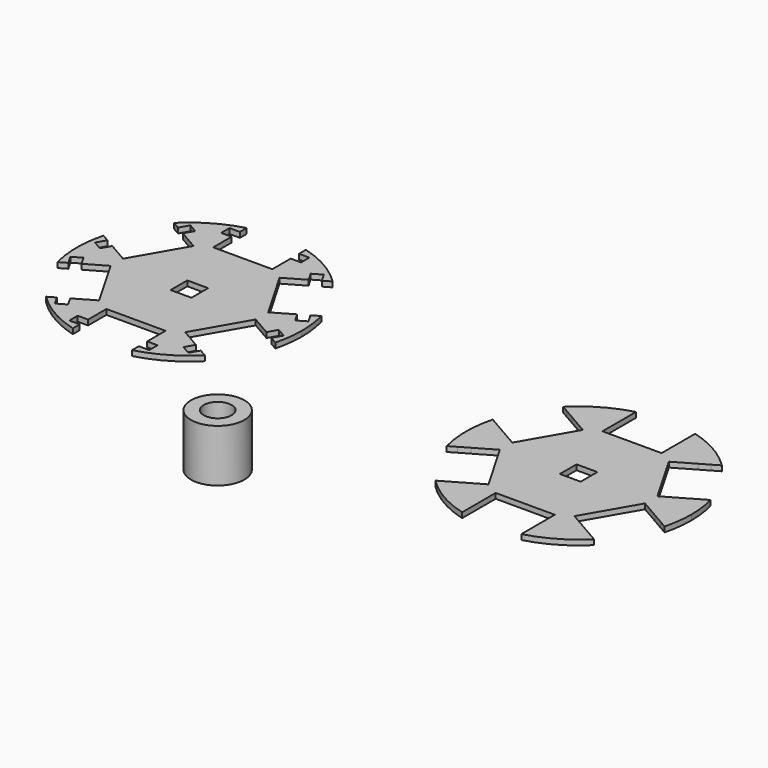
from build123d import *

# Parameters (mm, degrees)
F0_R     = 4.064
F0_R_2   = 2.1209
F1_DEPTH = 8
F0_W     = 1.5875
F0_H     = 1.5875
F0_W_2   = 3.175
F0_H_2   = 3.175
F2_DEPTH = 0.79375
F3_DEPTH = 0.79375


with BuildPart() as f1:
    # F0 (on Top) → F1 (new body)
    with BuildSketch(Plane.XY):
        with Locations((-34.970284, -24.971306)):
            Circle(F0_R)
        with Locations((-34.970284, -24.971306)):
            Circle(F0_R_2, mode=Mode.SUBTRACT)
    extrude(amount=F1_DEPTH)


with BuildPart() as f2:
    # F0 (on Top) → F2 (new body)
    with BuildSketch(Plane.XY):
        Polygon((-16.241977, -2.34807), (-15.448227, -3.722886), (-14.073412, -2.929136), (-14.867162, -1.55432), align=None)
        with Locations((-5.29375, -14.44625)):
            Rectangle(F0_W, F0_H)
        with Locations((5.29375, -14.44625)):
            Rectangle(F0_W, F0_H)
        Polygon((10.154477, -12.89193), (10.948227, -11.517114), (9.573412, -10.723364), (8.779662, -12.09818), align=None)
        Polygon((14.073412, -2.929136), (15.448227, -3.722886), (16.241977, -2.34807), (14.867162, -1.55432), align=None)
        Polygon((16.241977, 2.34807), (15.448227, 3.722886), (14.073412, 2.929136), (14.867162, 1.55432), align=None)
        Polygon((-10.154477, 12.89193), (-10.948227, 11.517114), (-9.573412, 10.723364), (-8.779662, 12.09818), align=None)
        with BuildLine():
            ThreePointArc((16.577448, -4.374842), (17.00252, -2.205751), (17.145, 0))
            ThreePointArc((17.145, 0), (17.00252, 2.205751), (16.577448, 4.374842))
            Line((16.577448, 4.374842), (15.448227, 3.722886))
            Line((15.448227, 3.722886), (16.241977, 2.34807))
            Line((16.241977, 2.34807), (14.867162, 1.55432))
            Line((14.867162, 1.55432), (14.073412, 2.929136))
            Line((14.073412, 2.929136), (11.048818, 1.182886))
            Line((11.048818, 1.182886), (6.548818, 8.977114))
            Line((6.548818, 8.977114), (9.573412, 10.723364))
            Line((9.573412, 10.723364), (8.779662, 12.09818))
            Line((8.779662, 12.09818), (10.154477, 12.89193))
            Line((10.154477, 12.89193), (10.948227, 11.517114))
            Line((10.948227, 11.517114), (12.077448, 12.16907))
            ThreePointArc((12.077448, 12.16907), (8.5725, 14.848006), (4.5, 16.543912))
            Line((4.5, 16.543912), (4.5, 15.24))
            Line((4.5, 15.24), (6.0875, 15.24))
            Line((6.0875, 15.24), (6.0875, 13.6525))
            Line((6.0875, 13.6525), (4.5, 13.6525))
            Line((4.5, 13.6525), (4.5, 10.16))
            Line((4.5, 10.16), (-4.5, 10.16))
            Line((-4.5, 10.16), (-4.5, 13.6525))
            Line((-4.5, 13.6525), (-6.0875, 13.6525))
            Line((-6.0875, 13.6525), (-6.0875, 15.24))
            Line((-6.0875, 15.24), (-4.5, 15.24))
            Line((-4.5, 15.24), (-4.5, 16.543912))
            ThreePointArc((-4.5, 16.543912), (-8.5725, 14.848006), (-12.077448, 12.16907))
            Line((-12.077448, 12.16907), (-10.948227, 11.517114))
            Line((-10.948227, 11.517114), (-10.154477, 12.89193))
            Line((-10.154477, 12.89193), (-8.779662, 12.09818))
            Line((-8.779662, 12.09818), (-9.573412, 10.723364))
            Line((-9.573412, 10.723364), (-6.548818, 8.977114))
            Line((-6.548818, 8.977114), (-11.048818, 1.182886))
            Line((-11.048818, 1.182886), (-14.073412, 2.929136))
            Line((-14.073412, 2.929136), (-14.867162, 1.55432))
            Line((-14.867162, 1.55432), (-16.241977, 2.34807))
            Line((-16.241977, 2.34807), (-15.448227, 3.722886))
            Line((-15.448227, 3.722886), (-16.577448, 4.374842))
            ThreePointArc((-16.577448, 4.374842), (-17.145, 0), (-16.577448, -4.374842))
            Line((-16.577448, -4.374842), (-15.448227, -3.722886))
            Line((-15.448227, -3.722886), (-16.241977, -2.34807))
            Line((-16.241977, -2.34807), (-14.867162, -1.55432))
            Line((-14.867162, -1.55432), (-14.073412, -2.929136))
            Line((-14.073412, -2.929136), (-11.048818, -1.182886))
            Line((-11.048818, -1.182886), (-6.548818, -8.977114))
            Line((-6.548818, -8.977114), (-9.573412, -10.723364))
            Line((-9.573412, -10.723364), (-8.779662, -12.09818))
            Line((-8.779662, -12.09818), (-10.154477, -12.89193))
            Line((-10.154477, -12.89193), (-10.948227, -11.517114))
            Line((-10.948227, -11.517114), (-12.077448, -12.16907))
            ThreePointArc((-12.077448, -12.16907), (-8.5725, -14.848006), (-4.5, -16.543912))
            Line((-4.5, -16.543912), (-4.5, -15.24))
            Line((-4.5, -15.24), (-6.0875, -15.24))
            Line((-6.0875, -15.24), (-6.0875, -13.6525))
            Line((-6.0875, -13.6525), (-4.5, -13.6525))
            Line((-4.5, -13.6525), (-4.5, -10.16))
            Line((-4.5, -10.16), (4.5, -10.16))
            Line((4.5, -10.16), (4.5, -13.6525))
            Line((4.5, -13.6525), (6.0875, -13.6525))
            Line((6.0875, -13.6525), (6.0875, -15.24))
            Line((6.0875, -15.24), (4.5, -15.24))
            Line((4.5, -15.24), (4.5, -16.543912))
            ThreePointArc((4.5, -16.543912), (8.5725, -14.848006), (12.077448, -12.16907))
            Line((12.077448, -12.16907), (10.948227, -11.517114))
            Line((10.948227, -11.517114), (10.154477, -12.89193))
            Line((10.154477, -12.89193), (8.779662, -12.09818))
            Line((8.779662, -12.09818), (9.573412, -10.723364))
            Line((9.573412, -10.723364), (6.548818, -8.977114))
            Line((6.548818, -8.977114), (11.048818, -1.182886))
            Line((11.048818, -1.182886), (14.073412, -2.929136))
            Line((14.073412, -2.929136), (14.867162, -1.55432))
            Line((14.867162, -1.55432), (16.241977, -2.34807))
            Line((16.241977, -2.34807), (15.448227, -3.722886))
            Line((15.448227, -3.722886), (16.577448, -4.374842))
        make_face()
        Rectangle(F0_W_2, F0_H_2, mode=Mode.SUBTRACT)
        with Locations((-5.29375, 14.44625)):
            Rectangle(F0_W, F0_H)
        with Locations((5.29375, 14.44625)):
            Rectangle(F0_W, F0_H)
        Polygon((9.573412, 10.723364), (10.948227, 11.517114), (10.154477, 12.89193), (8.779662, 12.09818), align=None)
        Polygon((-14.073412, 2.929136), (-15.448227, 3.722886), (-16.241977, 2.34807), (-14.867162, 1.55432), align=None)
        Polygon((-9.573412, -10.723364), (-10.948227, -11.517114), (-10.154477, -12.89193), (-8.779662, -12.09818), align=None)
    extrude(amount=F2_DEPTH)


with BuildPart() as f3:
    # F0 (on Top) → F3 (new body)
    with BuildSketch(Plane.XY):
        with BuildLine():
            ThreePointArc((-49.136233, 3.692473), (-48.711161, 5.861563), (-48.568681, 8.067314))
            ThreePointArc((-48.568681, 8.067314), (-48.711161, 10.273066), (-49.136233, 12.442156))
            Line((-49.136233, 12.442156), (-50.265454, 11.7902))
            Line((-50.265454, 11.7902), (-49.471704, 10.415385))
            Line((-49.471704, 10.415385), (-50.846519, 9.621635))
            Line((-50.846519, 9.621635), (-51.640269, 10.99645))
            Line((-51.640269, 10.99645), (-54.664863, 9.2502))
            Line((-54.664863, 9.2502), (-59.164863, 17.044429))
            Line((-59.164863, 17.044429), (-56.140269, 18.790679))
            Line((-56.140269, 18.790679), (-56.934019, 20.165494))
            Line((-56.934019, 20.165494), (-55.559204, 20.959244))
            Line((-55.559204, 20.959244), (-54.765454, 19.584429))
            Line((-54.765454, 19.584429), (-53.636233, 20.236385))
            ThreePointArc((-53.636233, 20.236385), (-57.141181, 22.91532), (-61.213681, 24.611226))
            Line((-61.213681, 24.611226), (-61.213681, 23.307314))
            Line((-61.213681, 23.307314), (-59.626181, 23.307314))
            Line((-59.626181, 23.307314), (-59.626181, 21.719814))
            Line((-59.626181, 21.719814), (-61.213681, 21.719814))
            Line((-61.213681, 21.719814), (-61.213681, 18.227314))
            Line((-61.213681, 18.227314), (-70.213681, 18.227314))
            Line((-70.213681, 18.227314), (-70.213681, 21.719814))
            Line((-70.213681, 21.719814), (-71.801181, 21.719814))
            Line((-71.801181, 21.719814), (-71.801181, 23.307314))
            Line((-71.801181, 23.307314), (-70.213681, 23.307314))
            Line((-70.213681, 23.307314), (-70.213681, 24.611226))
            ThreePointArc((-70.213681, 24.611226), (-74.286181, 22.91532), (-77.791129, 20.236385))
            Line((-77.791129, 20.236385), (-76.661908, 19.584429))
            Line((-76.661908, 19.584429), (-75.868158, 20.959244))
            Line((-75.868158, 20.959244), (-74.493343, 20.165494))
            Line((-74.493343, 20.165494), (-75.287093, 18.790679))
            Line((-75.287093, 18.790679), (-72.262499, 17.044429))
            Line((-72.262499, 17.044429), (-76.762499, 9.2502))
            Line((-76.762499, 9.2502), (-79.787093, 10.99645))
            Line((-79.787093, 10.99645), (-80.580843, 9.621635))
            Line((-80.580843, 9.621635), (-81.955658, 10.415385))
            Line((-81.955658, 10.415385), (-81.161908, 11.7902))
            Line((-81.161908, 11.7902), (-82.291129, 12.442156))
            ThreePointArc((-82.291129, 12.442156), (-82.858681, 8.067314), (-82.291129, 3.692473))
            Line((-82.291129, 3.692473), (-81.161908, 4.344429))
            Line((-81.161908, 4.344429), (-81.955658, 5.719244))
            Line((-81.955658, 5.719244), (-80.580843, 6.512994))
            Line((-80.580843, 6.512994), (-79.787093, 5.138179))
            Line((-79.787093, 5.138179), (-76.762499, 6.884429))
            Line((-76.762499, 6.884429), (-72.262499, -0.9098))
            Line((-72.262499, -0.9098), (-75.287093, -2.65605))
            Line((-75.287093, -2.65605), (-74.493343, -4.030865))
            Line((-74.493343, -4.030865), (-75.868158, -4.824615))
            Line((-75.868158, -4.824615), (-76.661908, -3.4498))
            Line((-76.661908, -3.4498), (-77.791129, -4.101756))
            ThreePointArc((-77.791129, -4.101756), (-74.286181, -6.780691), (-70.213681, -8.476598))
            Line((-70.213681, -8.476598), (-70.213681, -7.172686))
            Line((-70.213681, -7.172686), (-71.801181, -7.172686))
            Line((-71.801181, -7.172686), (-71.801181, -5.585186))
            Line((-71.801181, -5.585186), (-70.213681, -5.585186))
            Line((-70.213681, -5.585186), (-70.213681, -2.092686))
            Line((-70.213681, -2.092686), (-61.213681, -2.092686))
            Line((-61.213681, -2.092686), (-61.213681, -5.585186))
            Line((-61.213681, -5.585186), (-59.626181, -5.585186))
            Line((-59.626181, -5.585186), (-59.626181, -7.172686))
            Line((-59.626181, -7.172686), (-61.213681, -7.172686))
            Line((-61.213681, -7.172686), (-61.213681, -8.476598))
            ThreePointArc((-61.213681, -8.476598), (-57.141181, -6.780691), (-53.636233, -4.101756))
            Line((-53.636233, -4.101756), (-54.765454, -3.4498))
            Line((-54.765454, -3.4498), (-55.559204, -4.824615))
            Line((-55.559204, -4.824615), (-56.934019, -4.030865))
            Line((-56.934019, -4.030865), (-56.140269, -2.65605))
            Line((-56.140269, -2.65605), (-59.164863, -0.9098))
            Line((-59.164863, -0.9098), (-54.664863, 6.884429))
            Line((-54.664863, 6.884429), (-51.640269, 5.138179))
            Line((-51.640269, 5.138179), (-50.846519, 6.512994))
            Line((-50.846519, 6.512994), (-49.471704, 5.719244))
            Line((-49.471704, 5.719244), (-50.265454, 4.344429))
            Line((-50.265454, 4.344429), (-49.136233, 3.692473))
        make_face()
        with Locations((-65.713681, 8.067314)):
            Rectangle(F0_W_2, F0_H_2, mode=Mode.SUBTRACT)
    extrude(amount=F3_DEPTH)


solid = Compound([f1.part, f2.part, f3.part])
